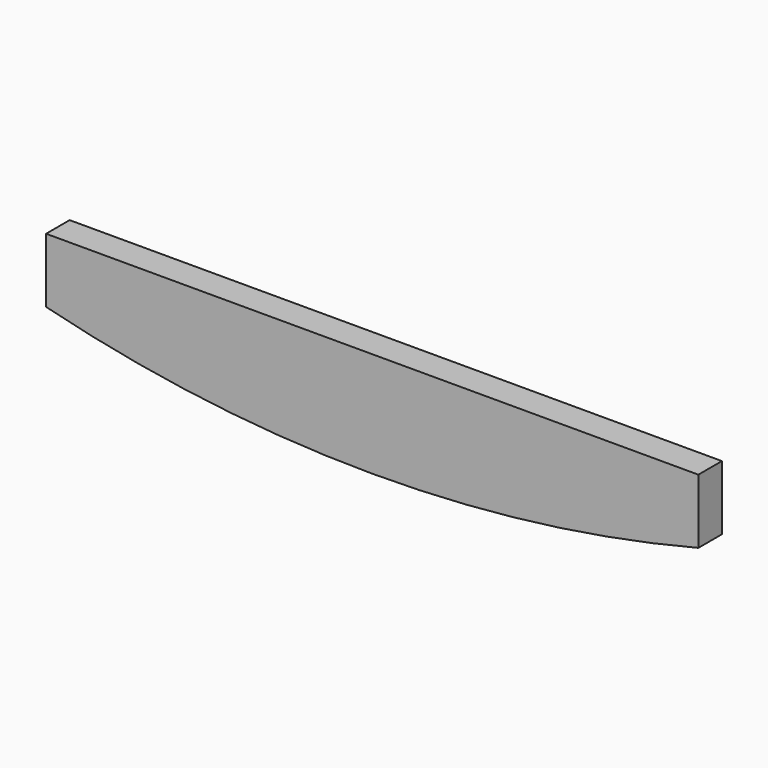
from build123d import *

# Parameters (mm, degrees)
CYLINDER002_R          = 630
CYLINDER002_DEPTH      = 15
CYLINDER002_ROLL_ANGLE = 90
BOX025_W               = 50
BOX025_H               = 15
BOX025_DEPTH           = 310
BOX025_PITCH_ANGLE     = 90


with BuildPart() as obj1:
    # Cylinder002 → Cylinder002 (new body)
    with BuildSketch(Plane.XY):
        Circle(CYLINDER002_R)
    extrude(amount=CYLINDER002_DEPTH)


with BuildPart() as obj1_1:
    # Cylinder002 roll: moved
    add(obj1.part.rotate(Axis((0, 0, 0), (1, 0, 0)), CYLINDER002_ROLL_ANGLE))


with BuildPart() as obj1_2:
    # Cylinder002 placement: moved
    add(obj1_1.part.moved(Location((400, 118, 710))))


with BuildPart() as obj2:
    # Box025 → Box025 (new body)
    with BuildSketch(Plane.XY):
        with Locations((25, 7.5)):
            Rectangle(BOX025_W, BOX025_H)
    extrude(amount=BOX025_DEPTH)


with BuildPart() as obj2_1:
    # Box025 pitch: moved
    add(obj2.part.rotate(Axis((0, 0, 0), (0, 1, 0)), BOX025_PITCH_ANGLE))


with BuildPart() as obj2_2:
    # Box025 placement: moved
    add(obj2_1.part.moved(Location((245, 102, 130))))

    # Common: intersect obj1
    add(obj1_2.part, mode=Mode.INTERSECT)


solid = obj2_2.part
